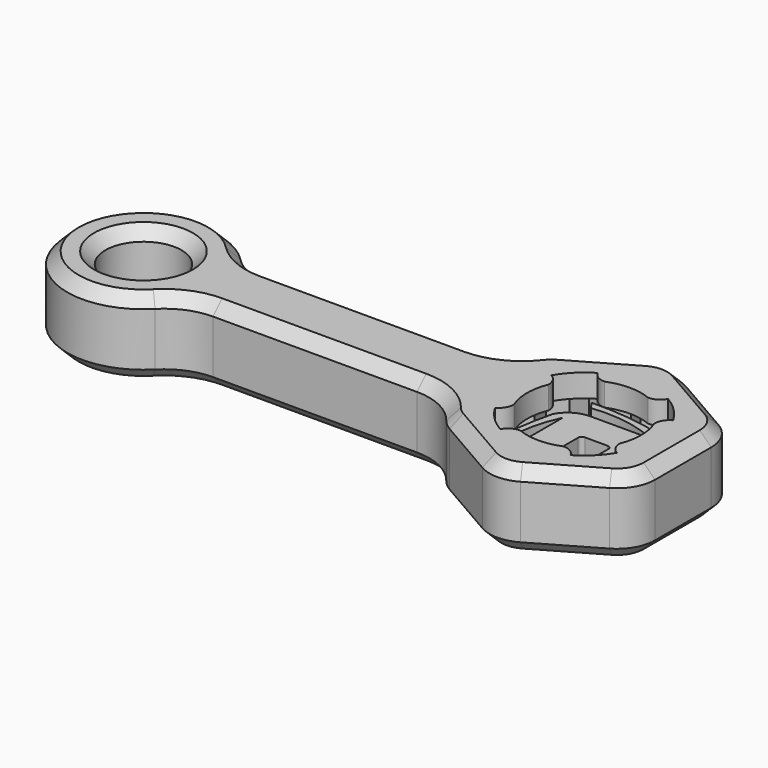
from build123d import *

# Parameters (mm, degrees)
F1_DEPTH  = 2
F0_R      = 5
F2_DEPTH  = 5
F4_DEPTH  = 3
F6_DEPTH  = 3
F7_R      = 8
F8_SIZE   = 1.5
F10_DEPTH = 3


with BuildPart() as f1:
    # F0 (on Top) → F1 (new body, symmetric)
    with BuildSketch(Plane.XY):
        with BuildLine():
            Line((13, -4.618802), (13, 4.618802))
            ThreePointArc((13, 4.618802), (12.330127, 7.118802), (10.5, 8.948929))
            Line((10.5, 8.948929), (2.5, 13.567731))
            ThreePointArc((2.5, 13.567731), (0, 14.237604), (-2.5, 13.567731))
            Line((-2.5, 13.567731), (-10.5, 8.948929))
            ThreePointArc((-10.5, 8.948929), (-12.330127, 7.118802), (-13, 4.618802))
            Line((-13, 4.618802), (-13, -4.618802))
            ThreePointArc((-13, -4.618802), (-12.330127, -7.118802), (-10.5, -8.948929))
            Line((-10.5, -8.948929), (-2.5, -13.567731))
            ThreePointArc((-2.5, -13.567731), (0, -14.237604), (2.5, -13.567731))
            Line((2.5, -13.567731), (10.5, -8.948929))
            ThreePointArc((10.5, -8.948929), (12.330127, -7.118802), (13, -4.618802))
        make_face()
        Polygon((9.299038, 5.368802), (8.785484, 2.854577), (10.678783, 1.122385), (9.187, -0.965593), (10.212069, -3.318102), (8, -4.618802), (7.979595, -7.18486), (5.429728, -7.473379), (4.367377, -9.80929), (1.920606, -9.03574), (0, -10.737604), (-1.920606, -9.03574), (-4.367377, -9.80929), (-5.429728, -7.473379), (-7.979595, -7.18486), (-8, -4.618802), (-10.212069, -3.318102), (-9.187, -0.965593), (-10.678783, 1.122385), (-8.785484, 2.854577), (-9.299038, 5.368802), (-6.864878, 6.181164), (-6.311405, 8.686904), (-3.757272, 8.438971), (-2.232473, 10.502962), (0, 9.237604), (2.232473, 10.502962), (3.757272, 8.438971), (6.311405, 8.686904), (6.864878, 6.181164), align=None, mode=Mode.SUBTRACT)
    extrude(amount=F1_DEPTH, both=True)

    # F0 (on Top) → F2 (join, symmetric)
    with BuildSketch(Plane.XY):
        with BuildLine():
            ThreePointArc((-47.869423, 0), (-48.156179, 2.37758), (-49, 4.618802))
            ThreePointArc((-49, 4.618802), (-67.869423, 0), (-49, -4.618802))
            ThreePointArc((-49, -4.618802), (-48.156179, -2.37758), (-47.869423, 0))
        make_face()
        with Locations((-57.869423, 0)):
            Circle(F0_R, mode=Mode.SUBTRACT)
        with BuildLine():
            Line((-13, -4.618802), (-13, 4.618802))
            Line((-13, 4.618802), (-49, 4.618802))
            ThreePointArc((-49, 4.618802), (-48.156179, 2.37758), (-47.869423, 0))
            ThreePointArc((-47.869423, 0), (-48.156179, -2.37758), (-49, -4.618802))
            Line((-49, -4.618802), (-13, -4.618802))
        make_face()
    extrude(amount=F2_DEPTH, both=True)

    # F3 (on face) → F4 (join)
    with BuildSketch(Plane.XY.offset(2)):
        with BuildLine():
            Line((13, -4.618802), (13, 4.618802))
            ThreePointArc((13, 4.618802), (12.330127, 7.118802), (10.5, 8.948929))
            Line((10.5, 8.948929), (2.5, 13.567731))
            ThreePointArc((2.5, 13.567731), (0, 14.237604), (-2.5, 13.567731))
            Line((-2.5, 13.567731), (-10.5, 8.948929))
            ThreePointArc((-10.5, 8.948929), (-12.330127, 7.118802), (-13, 4.618802))
            Line((-13, 4.618802), (-13, -4.618802))
            ThreePointArc((-13, -4.618802), (-12.330127, -7.118802), (-10.5, -8.948929))
            Line((-10.5, -8.948929), (-2.5, -13.567731))
            ThreePointArc((-2.5, -13.567731), (0, -14.237604), (2.5, -13.567731))
            Line((2.5, -13.567731), (10.5, -8.948929))
            ThreePointArc((10.5, -8.948929), (12.330127, -7.118802), (13, -4.618802))
        make_face()
        with BuildLine():
            ThreePointArc((-8, 4.618802), (-6.531973, 6.531973), (-4.618802, 8))
            ThreePointArc((-4.618802, 8), (-3.884321, 7.22308), (-2.854577, 6.935517))
            ThreePointArc((-2.854577, 6.935517), (0, 7.5), (2.854577, 6.935517))
            ThreePointArc((2.854577, 6.935517), (3.884321, 7.22308), (4.618802, 8))
            ThreePointArc((4.618802, 8), (6.531973, 6.531973), (8, 4.618802))
            ThreePointArc((8, 4.618802), (7.22308, 3.884321), (6.935517, 2.854577))
            ThreePointArc((6.935517, 2.854577), (7.5, 0), (6.935517, -2.854577))
            ThreePointArc((6.935517, -2.854577), (7.22308, -3.884321), (8, -4.618802))
            ThreePointArc((8, -4.618802), (6.531973, -6.531973), (4.618802, -8))
            ThreePointArc((4.618802, -8), (3.884321, -7.22308), (2.854577, -6.935517))
            ThreePointArc((2.854577, -6.935517), (0, -7.5), (-2.854577, -6.935517))
            ThreePointArc((-2.854577, -6.935517), (-3.884321, -7.22308), (-4.618802, -8))
            ThreePointArc((-4.618802, -8), (-6.531973, -6.531973), (-8, -4.618802))
            ThreePointArc((-8, -4.618802), (-7.22308, -3.884321), (-6.935517, -2.854577))
            ThreePointArc((-6.935517, -2.854577), (-7.5, 0), (-6.935517, 2.854577))
            ThreePointArc((-6.935517, 2.854577), (-7.22308, 3.884321), (-8, 4.618802))
        make_face(mode=Mode.SUBTRACT)
    extrude(amount=F4_DEPTH)

    # F5 (on face) → F6 (join)
    with BuildSketch(Plane(origin=(0, 0, -2), x_dir=(1, 0, 0), z_dir=(0, 0, -1))):
        with BuildLine():
            Line((13, -4.618802), (13, 4.618802))
            ThreePointArc((13, 4.618802), (12.330127, 7.118802), (10.5, 8.948929))
            Line((10.5, 8.948929), (2.5, 13.567731))
            ThreePointArc((2.5, 13.567731), (0, 14.237604), (-2.5, 13.567731))
            Line((-2.5, 13.567731), (-10.5, 8.948929))
            ThreePointArc((-10.5, 8.948929), (-12.330127, 7.118802), (-13, 4.618802))
            Line((-13, 4.618802), (-13, -4.618802))
            ThreePointArc((-13, -4.618802), (-12.330127, -7.118802), (-10.5, -8.948929))
            Line((-10.5, -8.948929), (-2.5, -13.567731))
            ThreePointArc((-2.5, -13.567731), (0, -14.237604), (2.5, -13.567731))
            Line((2.5, -13.567731), (10.5, -8.948929))
            ThreePointArc((10.5, -8.948929), (12.330127, -7.118802), (13, -4.618802))
        make_face()
        with BuildLine():
            ThreePointArc((-8, 4.618802), (-6.531973, 6.531973), (-4.618802, 8))
            ThreePointArc((-4.618802, 8), (-3.884321, 7.22308), (-2.854577, 6.935517))
            ThreePointArc((-2.854577, 6.935517), (0, 7.5), (2.854577, 6.935517))
            ThreePointArc((2.854577, 6.935517), (3.884321, 7.22308), (4.618802, 8))
            ThreePointArc((4.618802, 8), (6.531973, 6.531973), (8, 4.618802))
            ThreePointArc((8, 4.618802), (7.22308, 3.884321), (6.935517, 2.854577))
            ThreePointArc((6.935517, 2.854577), (7.5, 0), (6.935517, -2.854577))
            ThreePointArc((6.935517, -2.854577), (7.22308, -3.884321), (8, -4.618802))
            ThreePointArc((8, -4.618802), (6.531973, -6.531973), (4.618802, -8))
            ThreePointArc((4.618802, -8), (3.884321, -7.22308), (2.854577, -6.935517))
            ThreePointArc((2.854577, -6.935517), (0, -7.5), (-2.854577, -6.935517))
            ThreePointArc((-2.854577, -6.935517), (-3.884321, -7.22308), (-4.618802, -8))
            ThreePointArc((-4.618802, -8), (-6.531973, -6.531973), (-8, -4.618802))
            ThreePointArc((-8, -4.618802), (-7.22308, -3.884321), (-6.935517, -2.854577))
            ThreePointArc((-6.935517, -2.854577), (-7.5, 0), (-6.935517, 2.854577))
            ThreePointArc((-6.935517, 2.854577), (-7.22308, 3.884321), (-8, 4.618802))
        make_face(mode=Mode.SUBTRACT)
    extrude(amount=F6_DEPTH)

    # F7
    f7_edges = [f1.edges().sort_by_distance(p)[0] for p in [
        (-49, 4.618802, 0),
        (-13, 4.618802, 0),
        (-13, 4.618802, 3.5),
        (-13, 4.618802, -3.5),
        (-13, -4.618802, 0),
        (-13, -4.618802, 3.5),
        (-13, -4.618802, -3.5),
        (-49, -4.618802, 0),
    ]]
    fillet(f7_edges, radius=F7_R)

    # F8
    f8_edges = [f1.edges().sort_by_distance(p)[0] for p in [
        (-31.64013, -4.618802, 5),
        (-31.64013, 4.618802, 5),
        (-62.869423, 0, 5),
        (-31.64013, -4.618802, -5),
        (-31.64013, 4.618802, -5),
        (-62.869423, 0, -5),
    ]]
    chamfer(f8_edges, length=F8_SIZE)


with BuildPart() as f10:
    # F9 (on face) → F10 (new body)
    with BuildSketch(Plane.XY.offset(-2)):
        with BuildLine():
            ThreePointArc((6, 4), (5.414214, 5.414214), (4, 6))
            Line((4, 6), (-4, 6))
            ThreePointArc((-4, 6), (-5.414214, 5.414214), (-6, 4))
            Line((-6, 4), (-6, -4))
            ThreePointArc((-6, -4), (-5.414214, -5.414214), (-4, -6))
            Line((-4, -6), (4, -6))
            ThreePointArc((4, -6), (5.414214, -5.414214), (6, -4))
            Line((6, -4), (6, 4))
        make_face()
        with BuildLine():
            Line((-1.5, 2), (1.5, 2))
            ThreePointArc((1.5, 2), (1.853553, 1.853553), (2, 1.5))
            Line((2, 1.5), (2, -1.5))
            ThreePointArc((2, -1.5), (1.853553, -1.853553), (1.5, -2))
            Line((1.5, -2), (-1.5, -2))
            ThreePointArc((-1.5, -2), (-1.853553, -1.853553), (-2, -1.5))
            Line((-2, -1.5), (-2, 1.5))
            ThreePointArc((-2, 1.5), (-1.853553, 1.853553), (-1.5, 2))
        make_face(mode=Mode.SUBTRACT)
        with BuildLine():
            ThreePointArc((-5.087415, 7.473856), (-0.440621, 7.372534), (4, 6))
            ThreePointArc((4, 6), (5.414214, 5.414214), (6, 4))
            ThreePointArc((6, 4), (5.461077, 5.931567), (4, 7.305117))
            ThreePointArc((4, 7.305117), (-0.842082, 8.209767), (-5.76237, 8.444104))
            Line((-5.76237, 8.444104), (-5.087415, 7.473856))
        make_face()
        with BuildLine():
            ThreePointArc((-6, 4), (-5.414214, 5.414214), (-4, 6))
            ThreePointArc((-4, 6), (-5.931567, 5.461077), (-7.305117, 4))
            ThreePointArc((-7.305117, 4), (-8.209767, -0.842082), (-8.444104, -5.76237))
            Line((-8.444104, -5.76237), (-7.473856, -5.087415))
            ThreePointArc((-7.473856, -5.087415), (-7.372534, -0.440621), (-6, 4))
        make_face()
        with BuildLine():
            ThreePointArc((7.473856, 5.087415), (7.372534, 0.440621), (6, -4))
            ThreePointArc((6, -4), (5.414214, -5.414214), (4, -6))
            ThreePointArc((4, -6), (5.931567, -5.461077), (7.305117, -4))
            ThreePointArc((7.305117, -4), (8.209767, 0.842082), (8.444104, 5.76237))
            Line((8.444104, 5.76237), (7.473856, 5.087415))
        make_face()
        with BuildLine():
            ThreePointArc((-4, -6), (-5.414214, -5.414214), (-6, -4))
            ThreePointArc((-6, -4), (-5.461077, -5.931567), (-4, -7.305117))
            ThreePointArc((-4, -7.305117), (0.842082, -8.209767), (5.76237, -8.444104))
            Line((5.76237, -8.444104), (5.087415, -7.473856))
            ThreePointArc((5.087415, -7.473856), (0.440621, -7.372534), (-4, -6))
        make_face()
    extrude(amount=F10_DEPTH)


solid = Compound([f1.part, f10.part])
